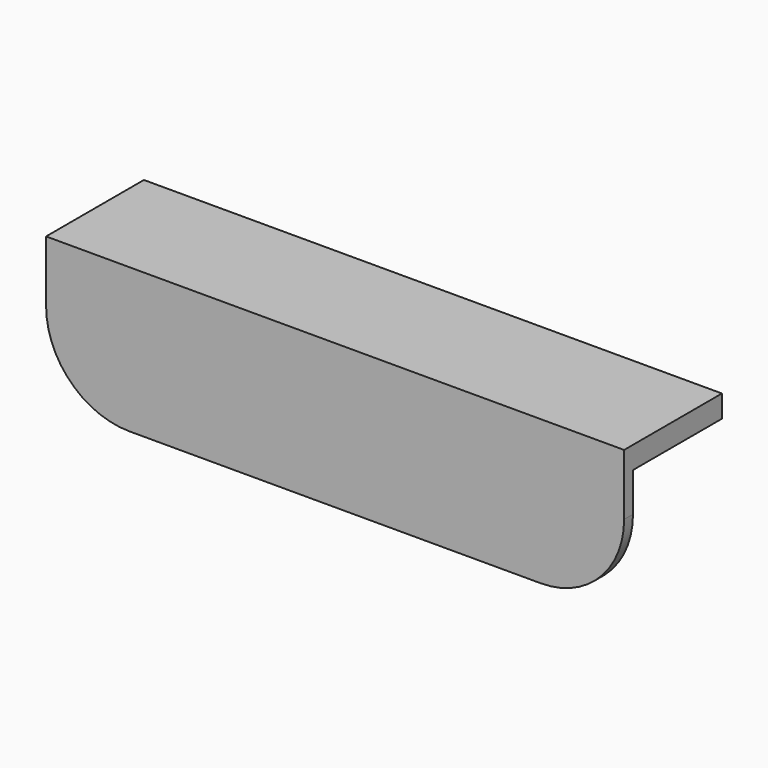
from build123d import *

# Parameters (mm, degrees)
F1_DEPTH = 10
F2_W     = 520
F2_H     = 20
F3_DEPTH = 100


with BuildPart() as f1:
    # F0 (on Front) → F1 (new body)
    with BuildSketch(Plane.XZ):
        with BuildLine():
            Line((260, -180), (-260, -180))
            Line((-260, -180), (-260, -235))
            ThreePointArc((-260, -235), (-238.033009, -288.033009), (-185, -310))
            Line((-185, -310), (185, -310))
            ThreePointArc((185, -310), (238.033009, -288.033009), (260, -235))
            Line((260, -235), (260, -180))
        make_face()
    extrude(amount=F1_DEPTH)

    # F2 (on face) → F3 (join)
    with BuildSketch(Plane(origin=(0, 0, 0), x_dir=(-1, 0, 0), z_dir=(0, 1, 0))):
        with Locations((0, -190)):
            Rectangle(F2_W, F2_H)
    extrude(amount=F3_DEPTH)


solid = f1.part
